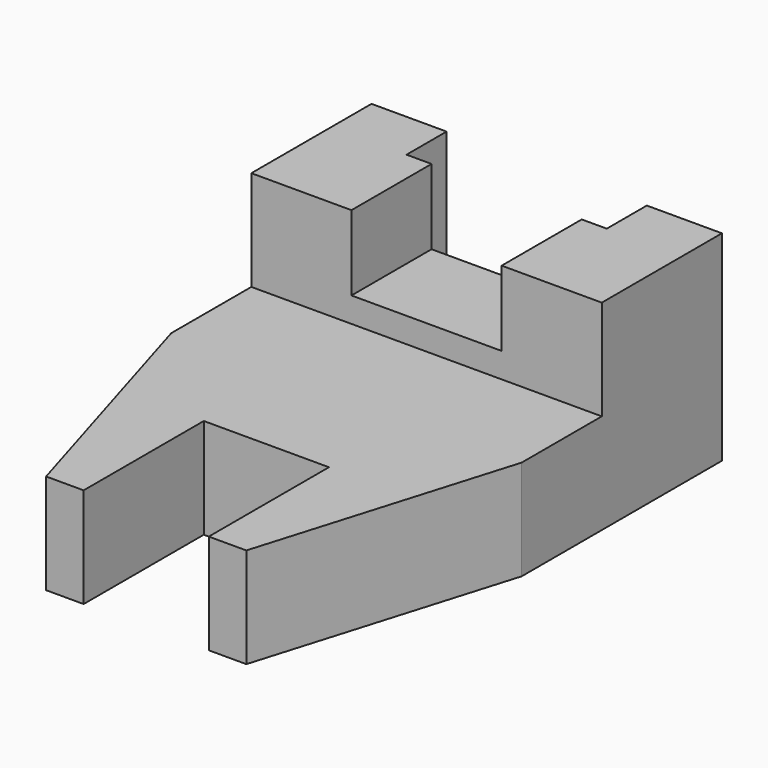
from build123d import *

# Parameters (mm, degrees)
SKETCH_W        = 70
SKETCH_H        = 100
PAD_DEPTH       = 20
POCKET_DEPTH    = 20.001
SKETCH002_W     = 25
SKETCH002_H     = 30
POCKET001_DEPTH = 20.001
SKETCH003_W     = 70
SKETCH003_H     = 30
PAD001_DEPTH    = 20
SKETCH004_W     = 40
SKETCH004_H     = 21.64003
POCKET002_DEPTH = 40.001
SKETCH005_W     = 30
SKETCH005_H     = 38.026675
POCKET003_DEPTH = 15


with BuildPart() as part:
    # Sketch → Pad (new body)
    with BuildSketch(Plane.XY):
        Rectangle(SKETCH_W, SKETCH_H)
    extrude(amount=PAD_DEPTH)

    # Sketch001 → Pocket (cut, through all)
    with BuildSketch(Plane.XY.offset(20)):
        Polygon((35, 0), (35, -50), (20, -50), align=None)
        Polygon((-35, 0), (-35, -50), (-20, -50), align=None)
    extrude(amount=-POCKET_DEPTH, mode=Mode.SUBTRACT)

    # Sketch002 → Pocket001 (cut, through all)
    with BuildSketch(Plane.XY.offset(20)):
        with Locations((0, -35)):
            Rectangle(SKETCH002_W, SKETCH002_H)
    extrude(amount=-POCKET001_DEPTH, mode=Mode.SUBTRACT)

    # Sketch003 → Pad001 (new body)
    with BuildSketch(Plane.XY.offset(20)):
        with Locations((0, 35)):
            Rectangle(SKETCH003_W, SKETCH003_H)
    extrude(amount=PAD001_DEPTH)

    # Sketch004 → Pocket002 (cut, through all)
    with BuildSketch(Plane.XY.offset(40)):
        with Locations((0, 50.820015)):
            Rectangle(SKETCH004_W, SKETCH004_H)
    extrude(amount=-POCKET002_DEPTH, mode=Mode.SUBTRACT)

    # Sketch005 → Pocket003 (cut)
    with BuildSketch(Plane.XY.offset(40)):
        with Locations((0, 31.280009)):
            Rectangle(SKETCH005_W, SKETCH005_H)
    extrude(amount=-POCKET003_DEPTH, mode=Mode.SUBTRACT)


solid = part.part
